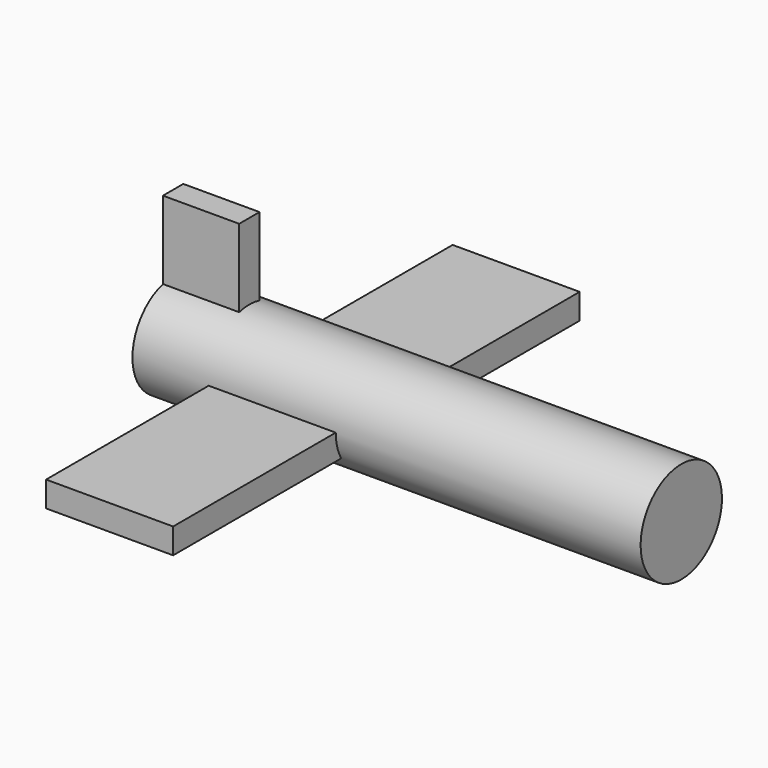
from build123d import *

# Parameters (mm, degrees)
BOX_W          = 5
BOX_H          = 20
BOX_DEPTH      = 1
CYLINDER_R     = 2
CYLINDER_DEPTH = 20
BOX001_W       = 3
BOX001_H       = 1
BOX001_DEPTH   = 5


with BuildPart() as cube:
    # Box → Box (new body)
    with BuildSketch(Plane(origin=(3, -10, -1), x_dir=(1, 0, 0), z_dir=(0, 0, 1))):
        with Locations((2.5, 10)):
            Rectangle(BOX_W, BOX_H)
    extrude(amount=BOX_DEPTH)


with BuildPart() as fusion:
    # Cylinder → Cylinder (new body)
    with BuildSketch(Plane(origin=(0, 0, 0), x_dir=(0, 0, -1), z_dir=(1, 0, 0))):
        Circle(CYLINDER_R)
    extrude(amount=CYLINDER_DEPTH)

    # Fusion: union Cube
    add(cube.part)


with BuildPart() as aeroplane:
    # Box001 → Box001 (new body)
    with BuildSketch(Plane(origin=(0, -0.5, 0), x_dir=(1, 0, 0), z_dir=(0, 0, 1))):
        with Locations((1.5, 0.5)):
            Rectangle(BOX001_W, BOX001_H)
    extrude(amount=BOX001_DEPTH)

    # Fusion001: union Fusion
    add(fusion.part)


solid = aeroplane.part
